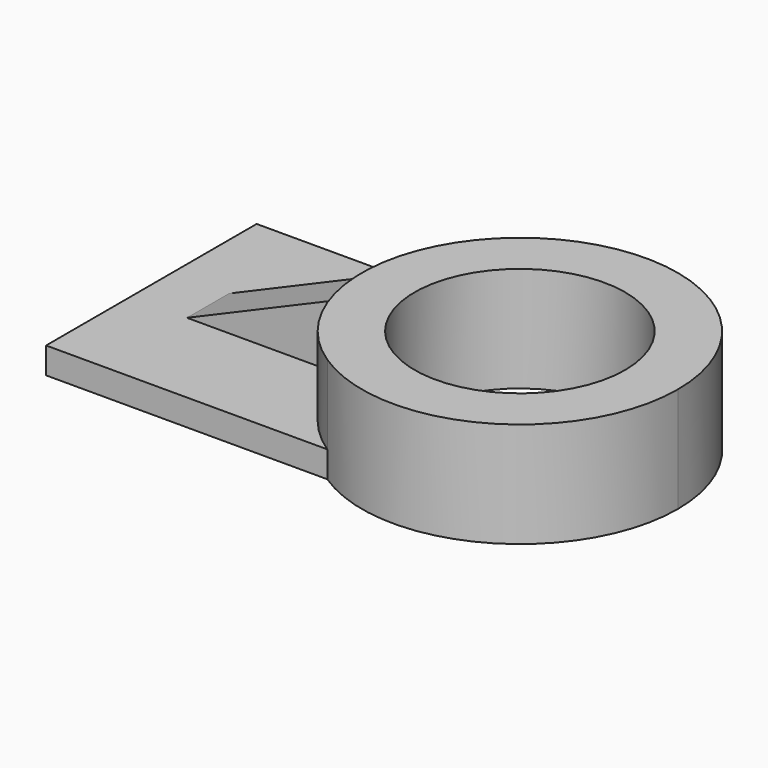
from build123d import *

# Parameters (mm, degrees)
F1_DEPTH      = 6.35
F0_R          = 25.4
F2_DEPTH      = 25.4
F4_DEPTH      = 6.35
F4_DEPTH_BACK = 6.35


with BuildPart() as f1:
    # F0 (on Top) → F1 (new body)
    with BuildSketch(Plane.XY):
        with BuildLine():
            ThreePointArc((-21.060567, -31.75), (-38.1, 0), (-21.060567, 31.75))
            Line((-21.060567, 31.75), (-88.9, 31.75))
            Line((-88.9, 31.75), (-88.9, -31.75))
            Line((-88.9, -31.75), (-21.060567, -31.75))
        make_face()
    extrude(amount=F1_DEPTH)

    # F0 (on Top) → F2 (join)
    with BuildSketch(Plane.XY):
        with BuildLine():
            ThreePointArc((-21.060567, -31.75), (18.016692, -33.570952), (38.1, 0))
            ThreePointArc((38.1, 0), (18.016692, 33.570952), (-21.060567, 31.75))
            ThreePointArc((-21.060567, 31.75), (-38.1, 0), (-21.060567, -31.75))
        make_face()
        Circle(F0_R, mode=Mode.SUBTRACT)
    extrude(amount=F2_DEPTH)

    # F3 (on Front) → F4 (join, two sides)
    with BuildSketch(Plane.XZ) as f4_sk:
        Polygon((-82.73942, 3.131038), (-38.28942, 3.131038), (-38.28942, 22.181038), align=None)
    extrude(amount=F4_DEPTH)
    extrude(f4_sk.sketch, amount=-F4_DEPTH_BACK)


solid = f1.part
